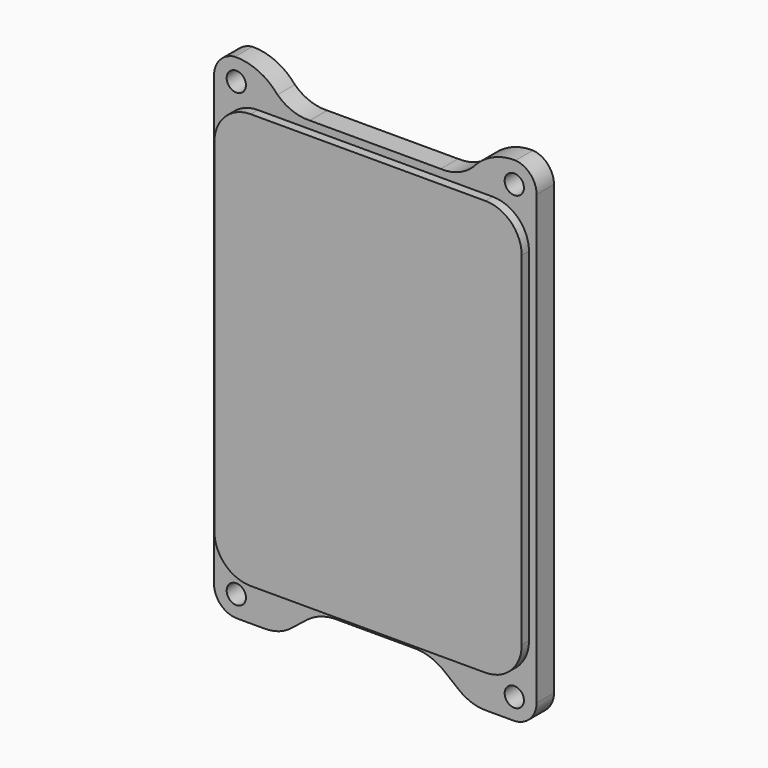
from build123d import *

# Parameters (mm, degrees)
F1_DEPTH = 3
F3_DEPTH = 1.25
F4_R     = 1.33
F5_DEPTH = 3.001


with BuildPart() as f1:
    # F0 (on Front) → F1 (new body)
    with BuildSketch(Plane.XZ):
        with BuildLine():
            ThreePointArc((-19.35648, 34.085312), (-21.41906, 33.046163), (-22.25, 30.891259))
            Line((-22.25, 30.891259), (-22.25, -30.860331))
            ThreePointArc((-22.25, -30.860331), (-21.32844, -33.100719), (-19.097213, -34.04424))
            Line((-19.097213, -34.04424), (-15.3672, -34.04424))
            ThreePointArc((-15.3672, -34.04424), (-13.279512, -33.719597), (-11.44242, -32.676084))
            Line((-11.44242, -32.676084), (-9.386582, -31.040758))
            ThreePointArc((-9.386582, -31.040758), (-7.333283, -29.983659), (-5.04129, -29.700344))
            Line((-5.04129, -29.700344), (0, -29.700344))
            Line((0, -29.700344), (5.04129, -29.700344))
            ThreePointArc((5.04129, -29.700344), (7.333283, -29.983659), (9.386582, -31.040758))
            Line((9.386582, -31.040758), (11.44242, -32.676084))
            ThreePointArc((11.44242, -32.676084), (13.279512, -33.719597), (15.3672, -34.04424))
            Line((15.3672, -34.04424), (19.097213, -34.04424))
            ThreePointArc((19.097213, -34.04424), (21.32844, -33.100719), (22.25, -30.860331))
            Line((22.25, -30.860331), (22.25, 30.891259))
            ThreePointArc((22.25, 30.891259), (21.41906, 33.046163), (19.35648, 34.085312))
            ThreePointArc((19.35648, 34.085312), (16.119272, 33.397026), (13.494445, 31.381204))
            ThreePointArc((13.494445, 31.381204), (11.432837, 30.084307), (9.027799, 29.699656))
            Line((9.027799, 29.699656), (0, 29.699656))
            Line((0, 29.699656), (-9.027799, 29.699656))
            ThreePointArc((-9.027799, 29.699656), (-11.432837, 30.084307), (-13.494445, 31.381204))
            ThreePointArc((-13.494445, 31.381204), (-16.119272, 33.397026), (-19.35648, 34.085312))
        make_face()
    extrude(amount=F1_DEPTH)

    # F2 (on face) → F3 (join)
    with BuildSketch(Plane.XZ.offset(3)):
        with BuildLine():
            Line((16.2, 28.65), (-16.2, 28.65))
            ThreePointArc((-16.2, 28.65), (-19.735534, 27.185534), (-21.2, 23.65))
            Line((-21.2, 23.65), (-21.2, -23.65))
            ThreePointArc((-21.2, -23.65), (-19.735534, -27.185534), (-16.2, -28.65))
            Line((-16.2, -28.65), (16.2, -28.65))
            ThreePointArc((16.2, -28.65), (19.735534, -27.185534), (21.2, -23.65))
            Line((21.2, -23.65), (21.2, 23.65))
            ThreePointArc((21.2, 23.65), (19.735534, 27.185534), (16.2, 28.65))
        make_face()
    extrude(amount=F3_DEPTH)

    # F4 (on face) → F5 (cut, through all)
    with BuildSketch(Plane.XZ.offset(3)):
        with Locations((-19.175, 31.125)):
            Circle(F4_R)
        with Locations((19.175, 31.125)):
            Circle(F4_R)
        with Locations((19.175, -31.125)):
            Circle(F4_R)
        with Locations((-19.175, -31.125)):
            Circle(F4_R)
    extrude(amount=-F5_DEPTH, mode=Mode.SUBTRACT)


solid = f1.part
